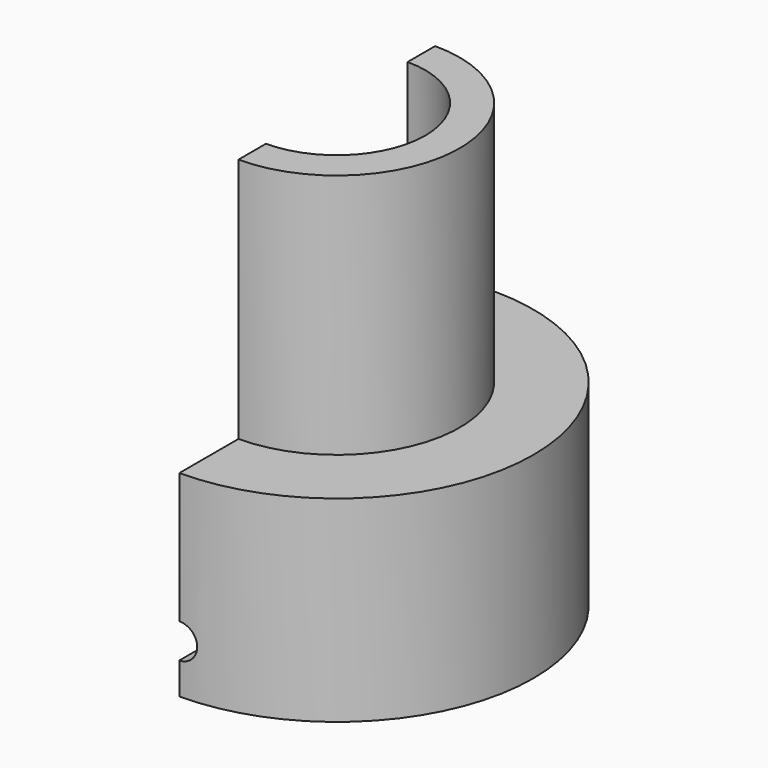
from build123d import *

# Parameters (mm, degrees)
F1_R      = 50.8
F2_DEPTH  = 50.8
F4_R      = 4.445
F5_DEPTH  = 15.24
F6_DEPTH  = 12.7
F8_DEPTH  = 12.7
F9_DEPTH  = 25.4
F10_R     = 31.75
F10_R_2   = 22.86
F11_DEPTH = 63.5
F13_W     = 63.243523
F13_H     = 123.192005
F14_DEPTH = 127
F16_R     = 4.445
F17_DEPTH = 25.4


with BuildPart() as f2:
    # F1 (on offset) → F2 (new body)
    with BuildSketch(Plane.XY.offset(12.7)):
        Circle(F1_R)
    extrude(amount=-F2_DEPTH)

    # F4 (on offset) → F5 (cut)
    with BuildSketch(Plane.XZ.offset(50.8)):
        with Locations((0, -25.462054)):
            Circle(F4_R)
    extrude(amount=-F5_DEPTH, mode=Mode.SUBTRACT)

    # F4 (on offset) → F6 (cut)
    with BuildSketch(Plane.XZ.offset(50.8)):
        with Locations((0, -25.462054)):
            Circle(F4_R)
    extrude(amount=-F6_DEPTH, mode=Mode.SUBTRACT)

    # F7 (on Right) → F8 (cut)
    with BuildSketch(Plane.YZ):
        Polygon((4.88417, -30.198015), (4.88417, 0), (-4.341668, 0), (-38.032606, 0), (-38.032606, -30.198015), align=None)
    extrude(amount=F8_DEPTH, mode=Mode.SUBTRACT)

    # F7 (on Right) → F9 (cut)
    with BuildSketch(Plane.YZ):
        Polygon((4.88417, -30.198015), (4.88417, 0), (-4.341668, 0), (-38.032606, 0), (-38.032606, -30.198015), align=None)
    extrude(amount=-F9_DEPTH, mode=Mode.SUBTRACT)

    # F10 (on offset) → F11 (join)
    with BuildSketch(Plane.XY.offset(12.7)):
        Circle(F10_R)
        Circle(F10_R_2, mode=Mode.SUBTRACT)
    extrude(amount=F11_DEPTH)

    # F13 (on offset) → F14 (cut)
    with BuildSketch(Plane.XY.offset(76.2)):
        with Locations((-31.621761, -5.643372)):
            Rectangle(F13_W, F13_H)
    extrude(amount=-F14_DEPTH, mode=Mode.SUBTRACT)

    # F16 (on offset) → F17 (cut)
    with BuildSketch(Plane.XY.offset(19.05)):
        with Locations((0, -27.301347)):
            Circle(F16_R)
    extrude(amount=-F17_DEPTH, mode=Mode.SUBTRACT)


solid = f2.part
